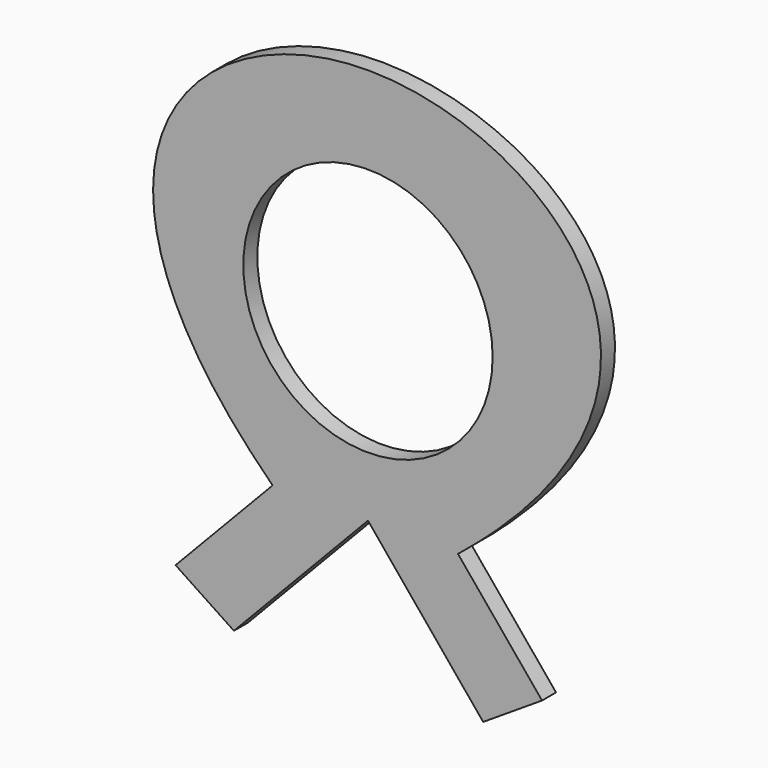
from build123d import *

# Parameters (mm, degrees)
F0_R     = 18.0747141935
F1_DEPTH = 2.54


with BuildPart() as f1:
    # F0 (on Front) → F1 (new body)
    with BuildSketch(Plane.XZ):
        with BuildLine():
            Line((-19.4348950877, -20.3806123298), (0, 0))
            Line((0, 0), (16.699552632, -20.2588886299))
            Line((16.699552632, -20.2588886299), (25.2381350227, -14.7526911437))
            Line((25.2381350227, -14.7526911437), (13.0525675652, 0))
            add(Edge.make_bspline(
                [(-13.8256175738, 0), (-47.8480048478, 33.2030691206), (-3.2876044389, 81.7786389535), (54.2710348964, 33.2030691206), (13.0525675652, 0)],
                knots=[0, 0, 0, 0, 0.5003725349, 1, 1, 1, 1], degree=3))
            Line((-13.8256175738, 0), (-27.8937427115, -14.7526911437))
            Line((-27.8937427115, -14.7526911437), (-19.4348950877, -20.3806123298))
        make_face()
        with Locations((0, 26.7530772835)):
            Circle(F0_R, mode=Mode.SUBTRACT)
    extrude(amount=F1_DEPTH)


solid = f1.part
